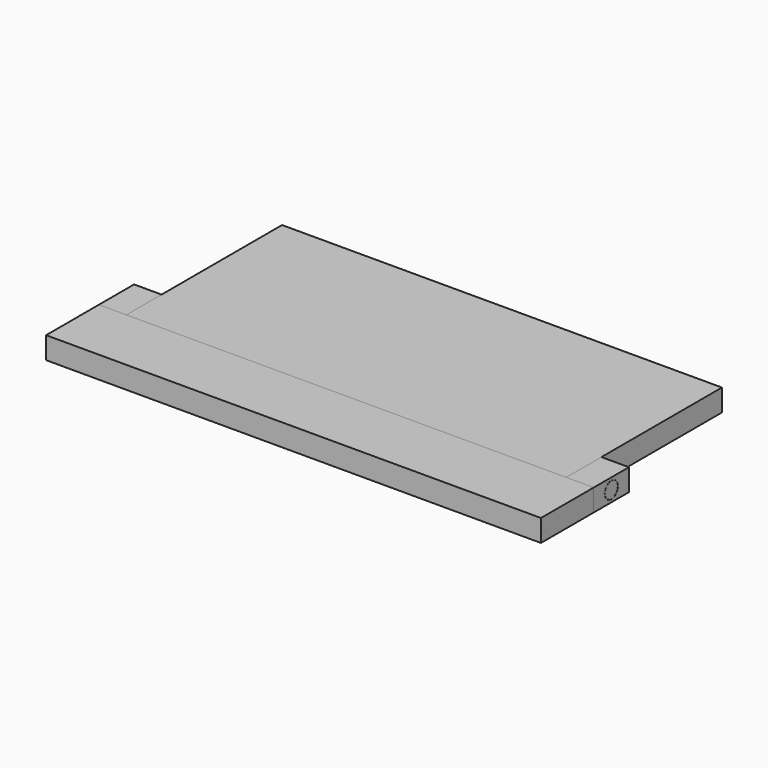
from build123d import *

# Parameters (mm, degrees)
F0_W      = 40
F0_H      = 17.6951652771
F1_DEPTH  = 2
F4_W      = 45.0000986457
F4_H      = 2.0004236139
F5_DEPTH  = 6
F2_W      = 2.5
F2_H      = 2
F6_DEPTH  = 4
F7_R      = 0.75
F8_DEPTH  = 45
F9_R      = 0.75
F10_DEPTH = 40
F11_R     = 0.735
F12_DEPTH = 45


with BuildPart() as f1:
    # F0 (on Top) → F1 (new body)
    with BuildSketch(Plane.XY):
        Rectangle(F0_W, F0_H)
    extrude(amount=F1_DEPTH)


with BuildPart() as f5:
    # F4 (on offset) → F5 (new body)
    with BuildSketch(Plane.XZ.offset(8.8475826385)):
        with Locations((-2.23517e-05, 1.000211807)):
            Rectangle(F4_W, F4_H)
    extrude(amount=F5_DEPTH)

    # F2 (on face) → F6 (join)
    with BuildSketch(Plane.XZ.offset(8.8475826385)):
        with Locations((-21.25, 1)):
            Rectangle(F2_W, F2_H)
        with Locations((21.25, 1)):
            Rectangle(F2_W, F2_H)
    extrude(amount=-F6_DEPTH)


with BuildPart() as f8_tool:
    # F7 (on face) → F8 (new body)
    with BuildSketch(Plane(origin=(-22.5, 0, 0), x_dir=(0, -1, 0), z_dir=(-1, 0, 0))):
        with Locations((6.8475826385, 1)):
            Circle(F7_R)
    extrude(amount=-F8_DEPTH)


with BuildPart() as f1_1:
    add(f1.part)

    # F8: cut by f8_tool
    add(f8_tool.part, mode=Mode.SUBTRACT)

    # F9 (on face) → F10 (cut)
    with BuildSketch(Plane(origin=(-20, 0, 0), x_dir=(0, -1, 0), z_dir=(-1, 0, 0))):
        with Locations((6.8475373649, 1)):
            Circle(F9_R)
    extrude(amount=-F10_DEPTH, mode=Mode.SUBTRACT)


with BuildPart() as f5_1:
    add(f5.part)

    # F8: cut by f8_tool
    add(f8_tool.part, mode=Mode.SUBTRACT)


with BuildPart() as f12:
    # F11 (on face) → F12 (new body)
    with BuildSketch(Plane(origin=(-22.5, 0, 0), x_dir=(0, -1, 0), z_dir=(-1, 0, 0))):
        with Locations((6.8474767406, 1.0000529489)):
            Circle(F11_R)
    extrude(amount=-F12_DEPTH)


solid = Compound([f1_1.part, f5_1.part, f12.part])
